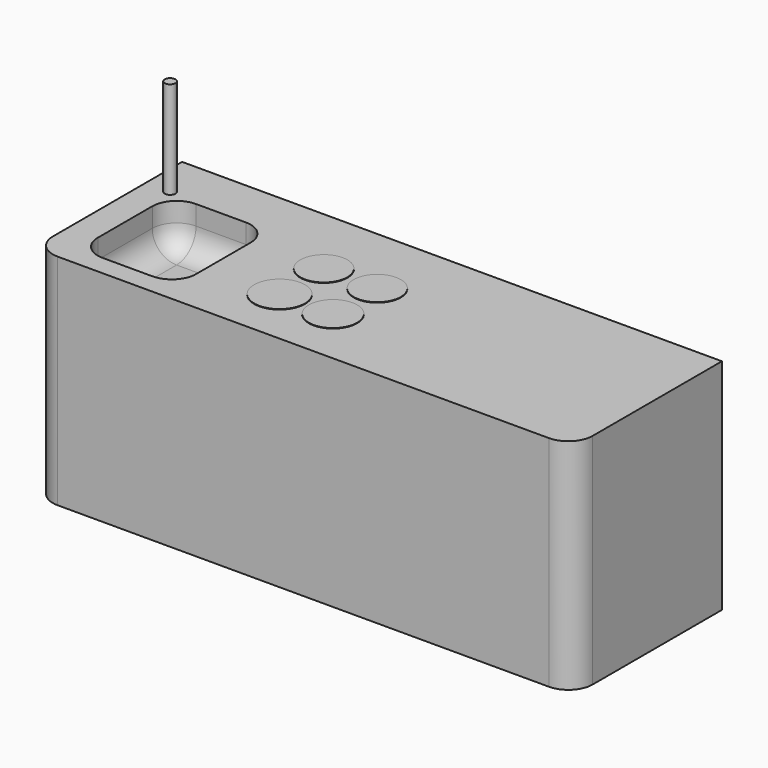
from build123d import *

# Parameters (mm, degrees)
F1_DEPTH = 45
F2_R     = 4.8450580426
F2_R_2   = 4.845014418
F2_R_3   = 5.2193072221
F2_R_4   = 4.9662241181
F3_DEPTH = 0.1
F4_DEPTH = 9
F5_R     = 5
F2_R_5   = 1.0935604598
F6_DEPTH = 20


with BuildPart() as f1:
    # F0 (on Top) → F1 (new body)
    with BuildSketch(Plane.XY):
        with BuildLine():
            Line((60.0371286273, 18.452970311), (-50.9405955672, 18.452970311))
            Line((-50.9405955672, 18.452970311), (-50.9405955672, -14.7524763644))
            ThreePointArc((-50.9405955672, -14.7524763644), (-49.4761294732, -18.2880102703), (-45.9405955672, -19.7524763644))
            Line((-45.9405955672, -19.7524763644), (55.0371286273, -19.7524763644))
            ThreePointArc((55.0371286273, -19.7524763644), (58.5726625332, -18.2880102703), (60.0371286273, -14.7524763644))
            Line((60.0371286273, -14.7524763644), (60.0371286273, 18.452970311))
        make_face()
    extrude(amount=F1_DEPTH)

    # F2 (on face) → F3 (join)
    with BuildSketch(Plane.XY.offset(45)):
        with Locations((1.0965270922, 3.5560266115)):
            Circle(F2_R)
        with Locations((-9.8790517077, 3.5560266115)):
            Circle(F2_R_2)
        with Locations((-9.8790517077, -7.8143570572)):
            Circle(F2_R_3)
        with Locations((1.0965270922, -7.8143570572)):
            Circle(F2_R_4)
    extrude(amount=F3_DEPTH)

    # F2 (on face) → F4 (cut)
    with BuildSketch(Plane.XY.offset(45)):
        with BuildLine():
            Line((-29.8118992895, 8.4029044956), (-40.030772686, 8.4029044956))
            ThreePointArc((-40.030772686, 8.4029044956), (-43.5663065919, 6.9384384015), (-45.030772686, 3.4029044956))
            Line((-45.030772686, 3.4029044956), (-45.030772686, -10.5901564285))
            ThreePointArc((-45.030772686, -10.5901564285), (-43.5663065919, -14.1256903344), (-40.030772686, -15.5901564285))
            Line((-40.030772686, -15.5901564285), (-29.8118992895, -15.5901564285))
            ThreePointArc((-29.8118992895, -15.5901564285), (-26.2763653836, -14.1256903344), (-24.8118992895, -10.5901564285))
            Line((-24.8118992895, -10.5901564285), (-24.8118992895, 3.4029044956))
            ThreePointArc((-24.8118992895, 3.4029044956), (-26.2763653836, 6.9384384015), (-29.8118992895, 8.4029044956))
        make_face()
    extrude(amount=-F4_DEPTH, mode=Mode.SUBTRACT)

    # F5
    f5_edges = [f1.edges().sort_by_distance(p)[0] for p in [
        (-43.566307, 6.938438, 36),
        (-34.921336, 8.402904, 36),
    ]]
    fillet(f5_edges, radius=F5_R)

    # F2 (on face) → F6 (join)
    with BuildSketch(Plane.XY.offset(45)):
        with Locations((-45.9486916661, 9.11985524)):
            Circle(F2_R_5)
    extrude(amount=F6_DEPTH)


solid = f1.part
